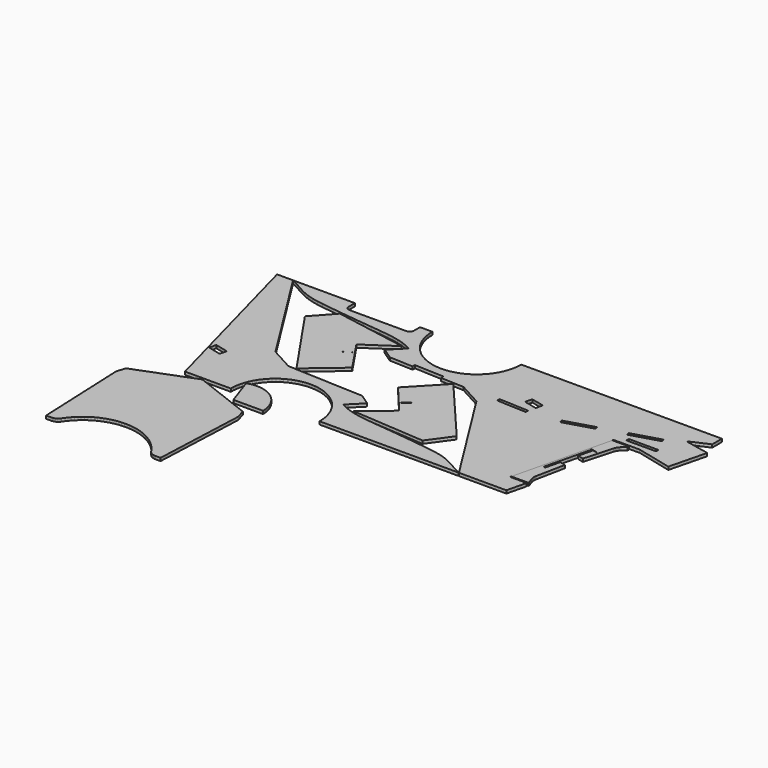
from build123d import *

# Parameters (mm, degrees)
PAD006_DEPTH = 5
PAD005_DEPTH = 5
PAD004_DEPTH = 5
PAD003_DEPTH = 5
PAD002_DEPTH = 5
PAD001_DEPTH = 5
PAD_DEPTH    = 5


with BuildPart() as part13:
    # Sketch → Pad006 (new body)
    with BuildSketch(Plane.XY):
        with BuildLine():
            add(Edge.make_bspline(
                [(348.496572, -118.44405), (348.355461, -119.819884)],
                knots=[0, 0, 3.920459, 3.920459], degree=1))
            add(Edge.make_bspline(
                [(348.355461, -119.819884), (347.932128, -121.125161)],
                knots=[0, 0, 3.88973, 3.88973], degree=1))
            add(Edge.make_bspline(
                [(347.932128, -121.125161), (347.297128, -122.324606)],
                knots=[0, 0, 3.847077, 3.847077], degree=1))
            add(Edge.make_bspline(
                [(347.297128, -122.324606), (346.415184, -123.382939)],
                knots=[0, 0, 3.905125, 3.905125], degree=1))
            add(Edge.make_bspline(
                [(346.415184, -123.382939), (345.35685, -124.264884)],
                knots=[0, 0, 3.905125, 3.905125], degree=1))
            add(Edge.make_bspline(
                [(345.35685, -124.264884), (344.157406, -124.899884)],
                knots=[0, 0, 3.847077, 3.847077], degree=1))
            add(Edge.make_bspline(
                [(344.157406, -124.899884), (342.852128, -125.287939)],
                knots=[0, 0, 3.860052, 3.860052], degree=1))
            add(Edge.make_bspline(
                [(342.852128, -125.287939), (341.476295, -125.42905)],
                knots=[0, 0, 3.920459, 3.920459], degree=1))
            add(Edge.make_bspline(
                [(245.485464, -125.42905), (341.476295, -125.42905)],
                knots=[0, 0, 272.1, 272.1], degree=1))
            add(Edge.make_bspline(
                [(245.485464, -125.42905), (244.10963, -125.287939)],
                knots=[0, 0, 3.920459, 3.920459], degree=1))
            add(Edge.make_bspline(
                [(244.10963, -125.287939), (242.804353, -124.899884)],
                knots=[0, 0, 3.860052, 3.860052], degree=1))
            add(Edge.make_bspline(
                [(242.804353, -124.899884), (241.604908, -124.264884)],
                knots=[0, 0, 3.847077, 3.847077], degree=1))
            add(Edge.make_bspline(
                [(241.604908, -124.264884), (240.546575, -123.382939)],
                knots=[0, 0, 3.905125, 3.905125], degree=1))
            add(Edge.make_bspline(
                [(240.546575, -123.382939), (239.66463, -122.324606)],
                knots=[0, 0, 3.905125, 3.905125], degree=1))
            add(Edge.make_bspline(
                [(239.66463, -122.324606), (239.02963, -121.125161)],
                knots=[0, 0, 3.847077, 3.847077], degree=1))
            add(Edge.make_bspline(
                [(239.02963, -121.125161), (238.606297, -119.819884)],
                knots=[0, 0, 3.88973, 3.88973], degree=1))
            add(Edge.make_bspline(
                [(238.606297, -119.819884), (238.465186, -118.44405)],
                knots=[0, 0, 3.920459, 3.920459], degree=1))
            add(Edge.make_bspline(
                [(238.465186, -105.426551), (238.465186, -118.44405)],
                knots=[0, 0, 36.9, 36.9], degree=1))
            add(Edge.make_bspline(
                [(134.325188, -105.426551), (238.465186, -105.426551)],
                knots=[0, 0, 295.2, 295.2], degree=1))
            add(Edge.make_bspline(
                [(134.325188, -105.426551), (143.003521, -109.836273)],
                knots=[0, 0, 27.593659, 27.593659], degree=1))
            add(Edge.make_bspline(
                [(143.003521, -109.836273), (151.540743, -114.669328)],
                knots=[0, 0, 27.808812, 27.808812], degree=1))
            add(Edge.make_bspline(
                [(151.540743, -114.669328), (160.148521, -119.502384)],
                knots=[0, 0, 27.983031, 27.983031], degree=1))
            add(Edge.make_bspline(
                [(160.148521, -119.502384), (168.89741, -123.912106)],
                knots=[0, 0, 27.772108, 27.772108], degree=1))
            add(Edge.make_bspline(
                [(168.89741, -123.912106), (177.928521, -127.510439)],
                knots=[0, 0, 27.557213, 27.557213], degree=1))
            add(Edge.make_bspline(
                [(177.928521, -127.510439), (187.312409, -130.226828)],
                knots=[0, 0, 27.692057, 27.692057], degree=1))
            add(Edge.make_bspline(
                [(187.312409, -130.226828), (196.907965, -132.202383)],
                knots=[0, 0, 27.770488, 27.770488], degree=1))
            add(Edge.make_bspline(
                [(196.907965, -132.202383), (206.644631, -133.754606)],
                knots=[0, 0, 27.948524, 27.948524], degree=1))
            add(Edge.make_bspline(
                [(206.644631, -133.754606), (237.230464, -137.776272)],
                knots=[0, 0, 87.446269, 87.446269], degree=1))
            add(Edge.make_bspline(
                [(237.230464, -137.776272), (267.710463, -141.374605)],
                knots=[0, 0, 87, 87], degree=1))
            add(Edge.make_bspline(
                [(267.710463, -141.374605), (282.950463, -143.032661)],
                knots=[0, 0, 43.454919, 43.454919], degree=1))
            add(Edge.make_bspline(
                [(282.950463, -143.032661), (298.261018, -144.655439)],
                knots=[0, 0, 43.643098, 43.643098], degree=1))
            add(Edge.make_bspline(
                [(298.261018, -144.655439), (313.606851, -146.278216)],
                knots=[0, 0, 43.742542, 43.742542], degree=1))
            add(Edge.make_bspline(
                [(313.606851, -146.278216), (328.882128, -148.183216)],
                knots=[0, 0, 43.635421, 43.635421], degree=1))
            add(Edge.make_bspline(
                [(328.882128, -148.183216), (338.407128, -149.770716)],
                knots=[0, 0, 27.372431, 27.372431], degree=1))
            add(Edge.make_bspline(
                [(338.407128, -149.770716), (347.826295, -151.78155)],
                knots=[0, 0, 27.301648, 27.301648], degree=1))
            add(Edge.make_bspline(
                [(347.826295, -151.78155), (357.10435, -154.427383)],
                knots=[0, 0, 27.348492, 27.348492], degree=1))
            add(Edge.make_bspline(
                [(357.10435, -154.427383), (366.135461, -157.81405)],
                knots=[0, 0, 27.340812, 27.340812], degree=1))
            add(Edge.make_bspline(
                [(366.135461, -157.81405), (374.990183, -162.047383)],
                knots=[0, 0, 27.821035, 27.821035], degree=1))
            add(Edge.make_bspline(
                [(374.990183, -162.047383), (352.306572, -184.730993)],
                knots=[0, 0, 90.933932, 90.933932], degree=1))
            add(Edge.make_bspline(
                [(352.306572, -184.730993), (371.003794, -197.32516)],
                knots=[0, 0, 63.902191, 63.902191], degree=1))
            add(Edge.make_bspline(
                [(371.003794, -197.32516), (410.58546, -199.018493)],
                knots=[0, 0, 112.302627, 112.302627], degree=1))
            add(Edge.make_bspline(
                [(410.797127, -194.009049), (410.58546, -199.018493)],
                knots=[0, 0, 14.21267, 14.21267], degree=1))
            add(Edge.make_bspline(
                [(460.750459, -196.160993), (410.797127, -194.009049)],
                knots=[0, 0, 141.73133, 141.73133], degree=1))
            add(Edge.make_bspline(
                [(460.750459, -201.13516), (460.750459, -196.160993)],
                knots=[0, 0, 14.1, 14.1], degree=1))
            add(Edge.make_bspline(
                [(460.750459, -201.13516), (499.873514, -202.828493)],
                knots=[0, 0, 111.003829, 111.003829], degree=1))
            add(Edge.make_bspline(
                [(499.873514, -202.828493), (538.679068, -224.030437)],
                knots=[0, 0, 125.347557, 125.347557], degree=1))
            add(Edge.make_bspline(
                [(538.679068, -224.030437), (648.216566, -397.985155)],
                knots=[0, 0, 582.715934, 582.715934], degree=1))
            add(Edge.make_bspline(
                [(648.216566, -397.985155), (728.367675, -397.985155)],
                knots=[0, 0, 227.2, 227.2], degree=1))
            add(Edge.make_bspline(
                [(728.367675, -397.985155), (736.340453, -365.106267)],
                knots=[0, 0, 95.900991, 95.900991], degree=1))
            add(Edge.make_bspline(
                [(708.329898, -365.106267), (736.340453, -365.106267)],
                knots=[0, 0, 79.4, 79.4], degree=1))
            add(Edge.make_bspline(
                [(749.005175, -197.32516), (708.329898, -365.106267)],
                knots=[0, 0, 489.376593, 489.376593], degree=1))
            add(Edge.make_bspline(
                [(749.005175, -197.32516), (792.996563, -197.32516)],
                knots=[0, 0, 124.7, 124.7], degree=1))
            add(Edge.make_bspline(
                [(792.996563, -197.32516), (852.898228, -211.824326)],
                knots=[0, 0, 174.70332, 174.70332], degree=1))
            add(Edge.make_bspline(
                [(852.898228, -211.824326), (868.561561, -149.206272)],
                knots=[0, 0, 182.968877, 182.968877], degree=1))
            add(Edge.make_bspline(
                [(868.561561, -149.206272), (826.298784, -140.316272)],
                knots=[0, 0, 122.42173, 122.42173], degree=1))
            add(Edge.make_bspline(
                [(826.298784, -140.316272), (858.331006, -126.028772)],
                knots=[0, 0, 99.422784, 99.422784], degree=1))
            add(Edge.make_bspline(
                [(858.331006, -126.028772), (858.331006, -105.426551)],
                knots=[0, 0, 58.4, 58.4], degree=1))
            add(Edge.make_bspline(
                [(519.346846, -105.426551), (858.331006, -105.426551)],
                knots=[0, 0, 960.9, 960.9], degree=1))
            add(Edge.make_bspline(
                [(519.170458, -110.682939), (519.346846, -105.426551)],
                knots=[0, 0, 14.908387, 14.908387], degree=1))
            add(Edge.make_bspline(
                [(518.606013, -115.868773), (519.170458, -110.682939)],
                knots=[0, 0, 14.786818, 14.786818], degree=1))
            add(Edge.make_bspline(
                [(517.688791, -121.019328), (518.606013, -115.868773)],
                knots=[0, 0, 14.8297, 14.8297], degree=1))
            add(Edge.make_bspline(
                [(516.418791, -126.099328), (517.688791, -121.019328)],
                knots=[0, 0, 14.84318, 14.84318], degree=1))
            add(Edge.make_bspline(
                [(514.831291, -131.073495), (516.418791, -126.099328)],
                knots=[0, 0, 14.800676, 14.800676], degree=1))
            add(Edge.make_bspline(
                [(512.855735, -135.941828), (514.831291, -131.073495)],
                knots=[0, 0, 14.892951, 14.892951], degree=1))
            add(Edge.make_bspline(
                [(510.56268, -140.633772), (512.855735, -135.941828)],
                knots=[0, 0, 14.803378, 14.803378], degree=1))
            add(Edge.make_bspline(
                [(507.952124, -145.184605), (510.56268, -140.633772)],
                knots=[0, 0, 14.871785, 14.871785], degree=1))
            add(Edge.make_bspline(
                [(505.024069, -149.523772), (507.952124, -145.184605)],
                knots=[0, 0, 14.838464, 14.838464], degree=1))
            add(Edge.make_bspline(
                [(501.778513, -153.651272), (505.024069, -149.523772)],
                knots=[0, 0, 14.883884, 14.883884], degree=1))
            add(Edge.make_bspline(
                [(498.286014, -157.531827), (501.778513, -153.651272)],
                knots=[0, 0, 14.798986, 14.798986], degree=1))
            add(Edge.make_bspline(
                [(494.511291, -161.165438), (498.286014, -157.531827)],
                knots=[0, 0, 14.851936, 14.851936], degree=1))
            add(Edge.make_bspline(
                [(490.524903, -164.552105), (494.511291, -161.165438)],
                knots=[0, 0, 14.82734, 14.82734], degree=1))
            add(Edge.make_bspline(
                [(486.291569, -167.621272), (490.524903, -164.552105)],
                knots=[0, 0, 14.821943, 14.821943], degree=1))
            add(Edge.make_bspline(
                [(481.846569, -170.408216), (486.291569, -167.621272)],
                knots=[0, 0, 14.871785, 14.871785], degree=1))
            add(Edge.make_bspline(
                [(477.225181, -172.842383), (481.846569, -170.408216)],
                knots=[0, 0, 14.80608, 14.80608], degree=1))
            add(Edge.make_bspline(
                [(472.427403, -174.994327), (477.225181, -172.842383)],
                knots=[0, 0, 14.905368, 14.905368], degree=1))
            add(Edge.make_bspline(
                [(467.523792, -176.758216), (472.427403, -174.994327)],
                knots=[0, 0, 14.771933, 14.771933], degree=1))
            add(Edge.make_bspline(
                [(462.47907, -178.204605), (467.523792, -176.758216)],
                knots=[0, 0, 14.876155, 14.876155], degree=1))
            add(Edge.make_bspline(
                [(457.363792, -179.298216), (462.47907, -178.204605)],
                knots=[0, 0, 14.827677, 14.827677], degree=1))
            add(Edge.make_bspline(
                [(452.177959, -180.039049), (457.363792, -179.298216)],
                knots=[0, 0, 14.849242, 14.849242], degree=1))
            add(Edge.make_bspline(
                [(446.956848, -180.391827), (452.177959, -180.039049)],
                knots=[0, 0, 14.833745, 14.833745], degree=1))
            add(Edge.make_bspline(
                [(441.735737, -180.391827), (446.956848, -180.391827)],
                knots=[0, 0, 14.8, 14.8], degree=1))
            add(Edge.make_bspline(
                [(436.514626, -180.039049), (441.735737, -180.391827)],
                knots=[0, 0, 14.833745, 14.833745], degree=1))
            add(Edge.make_bspline(
                [(431.328793, -179.298216), (436.514626, -180.039049)],
                knots=[0, 0, 14.849242, 14.849242], degree=1))
            add(Edge.make_bspline(
                [(426.213515, -178.204605), (431.328793, -179.298216)],
                knots=[0, 0, 14.827677, 14.827677], degree=1))
            add(Edge.make_bspline(
                [(421.168793, -176.758216), (426.213515, -178.204605)],
                knots=[0, 0, 14.876155, 14.876155], degree=1))
            add(Edge.make_bspline(
                [(416.229904, -174.994327), (421.168793, -176.758216)],
                knots=[0, 0, 14.866069, 14.866069], degree=1))
            add(Edge.make_bspline(
                [(411.467404, -172.842383), (416.229904, -174.994327)],
                knots=[0, 0, 14.814182, 14.814182], degree=1))
            add(Edge.make_bspline(
                [(406.846016, -170.408216), (411.467404, -172.842383)],
                knots=[0, 0, 14.80608, 14.80608], degree=1))
            add(Edge.make_bspline(
                [(402.401016, -167.621272), (406.846016, -170.408216)],
                knots=[0, 0, 14.871785, 14.871785], degree=1))
            add(Edge.make_bspline(
                [(398.167682, -164.552105), (402.401016, -167.621272)],
                knots=[0, 0, 14.821943, 14.821943], degree=1))
            add(Edge.make_bspline(
                [(394.146016, -161.165438), (398.167682, -164.552105)],
                knots=[0, 0, 14.903691, 14.903691], degree=1))
            add(Edge.make_bspline(
                [(390.406571, -157.531827), (394.146016, -161.165438)],
                knots=[0, 0, 14.780054, 14.780054], degree=1))
            add(Edge.make_bspline(
                [(386.878794, -153.651272), (390.406571, -157.531827)],
                knots=[0, 0, 14.866069, 14.866069], degree=1))
            add(Edge.make_bspline(
                [(383.668516, -149.523772), (386.878794, -153.651272)],
                knots=[0, 0, 14.822281, 14.822281], degree=1))
            add(Edge.make_bspline(
                [(380.740461, -145.184605), (383.668516, -149.523772)],
                knots=[0, 0, 14.838464, 14.838464], degree=1))
            add(Edge.make_bspline(
                [(378.129905, -140.633772), (380.740461, -145.184605)],
                knots=[0, 0, 14.871785, 14.871785], degree=1))
            add(Edge.make_bspline(
                [(375.83685, -135.941828), (378.129905, -140.633772)],
                knots=[0, 0, 14.803378, 14.803378], degree=1))
            add(Edge.make_bspline(
                [(373.861294, -131.073495), (375.83685, -135.941828)],
                knots=[0, 0, 14.892951, 14.892951], degree=1))
            add(Edge.make_bspline(
                [(372.238516, -126.099328), (373.861294, -131.073495)],
                knots=[0, 0, 14.831386, 14.831386], degree=1))
            add(Edge.make_bspline(
                [(370.968516, -121.019328), (372.238516, -126.099328)],
                knots=[0, 0, 14.84318, 14.84318], degree=1))
            add(Edge.make_bspline(
                [(370.086572, -115.868773), (370.968516, -121.019328)],
                knots=[0, 0, 14.812495, 14.812495], degree=1))
            add(Edge.make_bspline(
                [(369.522127, -110.682939), (370.086572, -115.868773)],
                knots=[0, 0, 14.786818, 14.786818], degree=1))
            add(Edge.make_bspline(
                [(369.345739, -105.426551), (369.522127, -110.682939)],
                knots=[0, 0, 14.908387, 14.908387], degree=1))
            add(Edge.make_bspline(
                [(348.496572, -105.426551), (369.345739, -105.426551)],
                knots=[0, 0, 59.1, 59.1], degree=1))
            add(Edge.make_bspline(
                [(348.496572, -118.44405), (348.496572, -105.426551)],
                knots=[0, 0, 36.9, 36.9], degree=1))
        make_face()
        with BuildLine():
            add(Edge.make_bspline(
                [(592.689345, -173.547938), (614.561567, -178.839605)],
                knots=[0, 0, 63.788714, 63.788714], degree=1))
            add(Edge.make_bspline(
                [(614.561567, -178.839605), (611.739344, -190.516549)],
                knots=[0, 0, 34.053047, 34.053047], degree=1))
            add(Edge.make_bspline(
                [(589.867123, -185.224882), (611.739344, -190.516549)],
                knots=[0, 0, 63.788714, 63.788714], degree=1))
            add(Edge.make_bspline(
                [(589.867123, -185.224882), (592.689345, -173.547938)],
                knots=[0, 0, 34.053047, 34.053047], degree=1))
        make_face(mode=Mode.SUBTRACT)
        with BuildLine():
            add(Edge.make_bspline(
                [(753.450175, -174.570994), (801.392674, -160.318772)],
                knots=[0, 0, 141.77789, 141.77789], degree=1))
            add(Edge.make_bspline(
                [(801.392674, -160.318772), (799.946285, -155.520994)],
                knots=[0, 0, 14.204577, 14.204577], degree=1))
            add(Edge.make_bspline(
                [(799.946285, -155.520994), (752.039064, -169.773216)],
                knots=[0, 0, 141.682038, 141.682038], degree=1))
            add(Edge.make_bspline(
                [(752.039064, -169.773216), (753.450175, -174.570994)],
                knots=[0, 0, 14.176036, 14.176036], degree=1))
        make_face(mode=Mode.SUBTRACT)
        with BuildLine():
            add(Edge.make_bspline(
                [(662.398232, -201.629049), (710.340731, -187.376827)],
                knots=[0, 0, 141.77789, 141.77789], degree=1))
            add(Edge.make_bspline(
                [(710.340731, -187.376827), (708.894342, -182.579049)],
                knots=[0, 0, 14.204577, 14.204577], degree=1))
            add(Edge.make_bspline(
                [(708.894342, -182.579049), (660.987121, -196.831271)],
                knots=[0, 0, 141.682038, 141.682038], degree=1))
            add(Edge.make_bspline(
                [(660.987121, -196.831271), (662.398232, -201.629049)],
                knots=[0, 0, 14.176036, 14.176036], degree=1))
        make_face(mode=Mode.SUBTRACT)
        with BuildLine():
            add(Edge.make_bspline(
                [(558.752123, -205.368493), (608.705456, -207.48516)],
                knots=[0, 0, 141.727062, 141.727062], degree=1))
            add(Edge.make_bspline(
                [(608.705456, -207.48516), (608.917122, -202.510993)],
                knots=[0, 0, 14.11276, 14.11276], degree=1))
            add(Edge.make_bspline(
                [(608.917122, -202.510993), (558.96379, -200.359049)],
                knots=[0, 0, 141.73133, 141.73133], degree=1))
            add(Edge.make_bspline(
                [(558.96379, -200.359049), (558.752123, -205.368493)],
                knots=[0, 0, 14.21267, 14.21267], degree=1))
        make_face(mode=Mode.SUBTRACT)
        with BuildLine():
            add(Edge.make_bspline(
                [(762.939897, -187.905993), (812.928507, -187.905993)],
                knots=[0, 0, 141.7, 141.7], degree=1))
            add(Edge.make_bspline(
                [(812.928507, -187.905993), (812.928507, -182.896549)],
                knots=[0, 0, 14.2, 14.2], degree=1))
            add(Edge.make_bspline(
                [(812.928507, -182.896549), (762.939897, -182.614327)],
                knots=[0, 0, 141.702258, 141.702258], degree=1))
            add(Edge.make_bspline(
                [(762.939897, -182.614327), (762.939897, -187.905993)],
                knots=[0, 0, 15, 15], degree=1))
        make_face(mode=Mode.SUBTRACT)
    extrude(amount=PAD006_DEPTH)


with BuildPart() as part14:
    # Sketch001 → Pad005 (new body)
    with BuildSketch(Plane.XY):
        with BuildLine():
            add(Edge.make_bspline(
                [(736.799064, -363.130712), (737.32823, -360.908212)],
                knots=[0, 0, 6.47611, 6.47611], degree=1))
            add(Edge.make_bspline(
                [(737.32823, -360.908212), (734.400175, -352.582656)],
                knots=[0, 0, 25.016994, 25.016994], degree=1))
            add(Edge.make_bspline(
                [(734.400175, -352.582656), (733.976842, -351.277379)],
                knots=[0, 0, 3.88973, 3.88973], degree=1))
            add(Edge.make_bspline(
                [(733.976842, -351.277379), (733.659342, -349.972101)],
                knots=[0, 0, 3.807887, 3.807887], degree=1))
            add(Edge.make_bspline(
                [(733.659342, -349.972101), (733.447675, -348.631545)],
                knots=[0, 0, 3.847077, 3.847077], degree=1))
            add(Edge.make_bspline(
                [(733.447675, -348.631545), (733.306564, -347.29099)],
                knots=[0, 0, 3.820995, 3.820995], degree=1))
            add(Edge.make_bspline(
                [(733.306564, -347.29099), (733.236008, -345.950434)],
                knots=[0, 0, 3.80526, 3.80526], degree=1))
            add(Edge.make_bspline(
                [(733.236008, -345.950434), (733.271286, -344.609879)],
                knots=[0, 0, 3.801316, 3.801316], degree=1))
            add(Edge.make_bspline(
                [(733.271286, -344.609879), (733.412397, -343.269323)],
                knots=[0, 0, 3.820995, 3.820995], degree=1))
            add(Edge.make_bspline(
                [(733.412397, -343.269323), (733.624064, -341.928768)],
                knots=[0, 0, 3.847077, 3.847077], degree=1))
            add(Edge.make_bspline(
                [(733.624064, -341.928768), (743.396008, -293.421824)],
                knots=[0, 0, 140.262397, 140.262397], degree=1))
            add(Edge.make_bspline(
                [(733.694619, -291.058213), (743.396008, -293.421824)],
                knots=[0, 0, 28.304417, 28.304417], degree=1))
            add(Edge.make_bspline(
                [(733.694619, -291.058213), (727.803231, -315.364602)],
                knots=[0, 0, 70.894993, 70.894993], degree=1))
            add(Edge.make_bspline(
                [(724.875175, -314.659046), (727.803231, -315.364602)],
                knots=[0, 0, 8.537564, 8.537564], degree=1))
            add(Edge.make_bspline(
                [(724.875175, -314.659046), (743.713508, -236.906826)],
                knots=[0, 0, 226.776807, 226.776807], degree=1))
            add(Edge.make_bspline(
                [(741.561564, -236.377659), (743.713508, -236.906826)],
                knots=[0, 0, 6.28172, 6.28172], degree=1))
            add(Edge.make_bspline(
                [(741.702675, -235.88377), (741.561564, -236.377659)],
                knots=[0, 0, 1.456022, 1.456022], degree=1))
            add(Edge.make_bspline(
                [(754.826008, -239.094048), (741.702675, -235.88377)],
                knots=[0, 0, 38.296867, 38.296867], degree=1))
            add(Edge.make_bspline(
                [(754.684897, -239.552659), (754.826008, -239.094048)],
                knots=[0, 0, 1.360147, 1.360147], degree=1))
            add(Edge.make_bspline(
                [(746.641564, -237.612381), (754.684897, -239.552659)],
                knots=[0, 0, 23.453998, 23.453998], degree=1))
            add(Edge.make_bspline(
                [(740.750175, -261.918769), (746.641564, -237.612381)],
                knots=[0, 0, 70.894993, 70.894993], degree=1))
            add(Edge.make_bspline(
                [(740.750175, -261.918769), (750.486841, -264.282381)],
                knots=[0, 0, 28.401584, 28.401584], degree=1))
            add(Edge.make_bspline(
                [(763.99823, -216.657382), (750.486841, -264.282381)],
                knots=[0, 0, 140.327795, 140.327795], degree=1))
            add(Edge.make_bspline(
                [(763.99823, -216.657382), (764.421563, -215.387382)],
                knots=[0, 0, 3.794733, 3.794733], degree=1))
            add(Edge.make_bspline(
                [(764.421563, -215.387382), (764.915452, -214.117382)],
                knots=[0, 0, 3.862642, 3.862642], degree=1))
            add(Edge.make_bspline(
                [(764.915452, -214.117382), (765.479897, -212.917937)],
                knots=[0, 0, 3.757659, 3.757659], degree=1))
            add(Edge.make_bspline(
                [(765.479897, -212.917937), (766.150174, -211.718493)],
                knots=[0, 0, 3.894868, 3.894868], degree=1))
            add(Edge.make_bspline(
                [(766.150174, -211.718493), (766.891008, -210.589604)],
                knots=[0, 0, 3.827532, 3.827532], degree=1))
            add(Edge.make_bspline(
                [(766.891008, -210.589604), (767.702396, -209.531271)],
                knots=[0, 0, 3.780212, 3.780212], degree=1))
            add(Edge.make_bspline(
                [(767.702396, -209.531271), (768.584341, -208.508215)],
                knots=[0, 0, 3.828838, 3.828838], degree=1))
            add(Edge.make_bspline(
                [(768.584341, -208.508215), (769.536841, -207.555715)],
                knots=[0, 0, 3.818377, 3.818377], degree=1))
            add(Edge.make_bspline(
                [(775.957396, -201.523215), (769.536841, -207.555715)],
                knots=[0, 0, 24.972985, 24.972985], degree=1))
            add(Edge.make_bspline(
                [(775.957396, -201.523215), (776.521841, -199.265438)],
                knots=[0, 0, 6.596969, 6.596969], degree=1))
            add(Edge.make_bspline(
                [(776.521841, -199.265438), (748.511286, -199.265438)],
                knots=[0, 0, 79.4, 79.4], degree=1))
            Line((748.511286, -199.265438), (708.788509, -363.130712))
            add(Edge.make_bspline(
                [(736.799064, -363.130712), (708.788509, -363.130712)],
                knots=[0, 0, 79.4, 79.4], degree=1))
        make_face()
    extrude(amount=PAD005_DEPTH)


with BuildPart() as part15:
    # Sketch002 → Pad004 (new body)
    with BuildSketch(Plane.XY):
        with BuildLine():
            add(Edge.make_bspline(
                [(647.934344, -397.985155), (639.25601, -393.575433)],
                knots=[0, 0, 27.593659, 27.593659], degree=1))
            add(Edge.make_bspline(
                [(639.25601, -393.575433), (630.718788, -388.777656)],
                knots=[0, 0, 27.759683, 27.759683], degree=1))
            add(Edge.make_bspline(
                [(630.718788, -388.777656), (622.146289, -383.9446)],
                knots=[0, 0, 27.895878, 27.895878], degree=1))
            add(Edge.make_bspline(
                [(622.146289, -383.9446), (613.3974, -379.534878)],
                knots=[0, 0, 27.772108, 27.772108], degree=1))
            add(Edge.make_bspline(
                [(613.3974, -379.534878), (604.366289, -375.936545)],
                knots=[0, 0, 27.557213, 27.557213], degree=1))
            add(Edge.make_bspline(
                [(604.366289, -375.936545), (594.9824, -373.220156)],
                knots=[0, 0, 27.692057, 27.692057], degree=1))
            add(Edge.make_bspline(
                [(594.9824, -373.220156), (585.386845, -371.209323)],
                knots=[0, 0, 27.790826, 27.790826], degree=1))
            add(Edge.make_bspline(
                [(585.386845, -371.209323), (575.650179, -369.6571)],
                knots=[0, 0, 27.948524, 27.948524], degree=1))
            add(Edge.make_bspline(
                [(575.650179, -369.6571), (545.029068, -365.635434)],
                knots=[0, 0, 87.545417, 87.545417], degree=1))
            add(Edge.make_bspline(
                [(545.029068, -365.635434), (514.584347, -362.037101)],
                knots=[0, 0, 86.90069, 86.90069], degree=1))
            add(Edge.make_bspline(
                [(514.584347, -362.037101), (499.309069, -360.379045)],
                knots=[0, 0, 43.554334, 43.554334], degree=1))
            add(Edge.make_bspline(
                [(499.309069, -360.379045), (483.998514, -358.756267)],
                knots=[0, 0, 43.643098, 43.643098], degree=1))
            add(Edge.make_bspline(
                [(483.998514, -358.756267), (468.687959, -357.13349)],
                knots=[0, 0, 43.643098, 43.643098], degree=1))
            add(Edge.make_bspline(
                [(468.687959, -357.13349), (453.377403, -355.22849)],
                knots=[0, 0, 43.734654, 43.734654], degree=1))
            add(Edge.make_bspline(
                [(453.377403, -355.22849), (443.852404, -353.676267)],
                knots=[0, 0, 27.356169, 27.356169], degree=1))
            add(Edge.make_bspline(
                [(443.852404, -353.676267), (434.433237, -351.630156)],
                knots=[0, 0, 27.322701, 27.322701], degree=1))
            add(Edge.make_bspline(
                [(434.433237, -351.630156), (425.19046, -349.019601)],
                knots=[0, 0, 27.224989, 27.224989], degree=1))
            add(Edge.make_bspline(
                [(425.19046, -349.019601), (416.124071, -345.632934)],
                knots=[0, 0, 27.434467, 27.434467], degree=1))
            add(Edge.make_bspline(
                [(416.124071, -345.632934), (407.304627, -341.364323)],
                knots=[0, 0, 27.774269, 27.774269], degree=1))
            add(Edge.make_bspline(
                [(407.304627, -341.364323), (429.952959, -318.71599)],
                knots=[0, 0, 90.792511, 90.792511], degree=1))
            add(Edge.make_bspline(
                [(429.952959, -318.71599), (411.255738, -306.121824)],
                knots=[0, 0, 63.902191, 63.902191], degree=1))
            add(Edge.make_bspline(
                [(411.255738, -306.121824), (282.421296, -300.618491)],
                knots=[0, 0, 365.533035, 365.533035], degree=1))
            add(Edge.make_bspline(
                [(282.421296, -300.618491), (243.580464, -279.381269)],
                knots=[0, 0, 125.483266, 125.483266], degree=1))
            add(Edge.make_bspline(
                [(243.580464, -279.381269), (134.078244, -105.426551)],
                knots=[0, 0, 582.662655, 582.662655], degree=1))
            add(Edge.make_bspline(
                [(134.078244, -105.426551), (107.055467, -105.426551)],
                knots=[0, 0, 76.6, 76.6], degree=1))
            add(Edge.make_bspline(
                [(107.055467, -105.426551), (185.54852, -397.985155)],
                knots=[0, 0, 858.629571, 858.629571], degree=1))
            add(Edge.make_bspline(
                [(262.947963, -397.985155), (185.54852, -397.985155)],
                knots=[0, 0, 219.4, 219.4], degree=1))
            add(Edge.make_bspline(
                [(263.124352, -392.764044), (262.947963, -397.985155)],
                knots=[0, 0, 14.808444, 14.808444], degree=1))
            add(Edge.make_bspline(
                [(263.653519, -387.542933), (263.124352, -392.764044)],
                knots=[0, 0, 14.875819, 14.875819], degree=1))
            add(Edge.make_bspline(
                [(264.570741, -382.392378), (263.653519, -387.542933)],
                knots=[0, 0, 14.8297, 14.8297], degree=1))
            add(Edge.make_bspline(
                [(265.840741, -377.312378), (264.570741, -382.392378)],
                knots=[0, 0, 14.84318, 14.84318], degree=1))
            add(Edge.make_bspline(
                [(267.463519, -372.338211), (265.840741, -377.312378)],
                knots=[0, 0, 14.831386, 14.831386], degree=1))
            add(Edge.make_bspline(
                [(269.403796, -367.505156), (267.463519, -372.338211)],
                knots=[0, 0, 14.762791, 14.762791], degree=1))
            add(Edge.make_bspline(
                [(271.696852, -362.777934), (269.403796, -367.505156)],
                knots=[0, 0, 14.893287, 14.893287], degree=1))
            add(Edge.make_bspline(
                [(274.342685, -358.262378), (271.696852, -362.777934)],
                knots=[0, 0, 14.835431, 14.835431], degree=1))
            add(Edge.make_bspline(
                [(277.270741, -353.923212), (274.342685, -358.262378)],
                knots=[0, 0, 14.838464, 14.838464], degree=1))
            add(Edge.make_bspline(
                [(280.481018, -349.795712), (277.270741, -353.923212)],
                knots=[0, 0, 14.822281, 14.822281], degree=1))
            add(Edge.make_bspline(
                [(283.973518, -345.879879), (280.481018, -349.795712)],
                knots=[0, 0, 14.873466, 14.873466], degree=1))
            add(Edge.make_bspline(
                [(287.74824, -342.246268), (283.973518, -345.879879)],
                knots=[0, 0, 14.851936, 14.851936], degree=1))
            add(Edge.make_bspline(
                [(291.769907, -338.894879), (287.74824, -342.246268)],
                knots=[0, 0, 14.839474, 14.839474], degree=1))
            add(Edge.make_bspline(
                [(296.00324, -335.825712), (291.769907, -338.894879)],
                knots=[0, 0, 14.821943, 14.821943], degree=1))
            add(Edge.make_bspline(
                [(300.44824, -333.038768), (296.00324, -335.825712)],
                knots=[0, 0, 14.871785, 14.871785], degree=1))
            add(Edge.make_bspline(
                [(305.069629, -330.569324), (300.44824, -333.038768)],
                knots=[0, 0, 14.852946, 14.852946], degree=1))
            add(Edge.make_bspline(
                [(309.832129, -328.452657), (305.069629, -330.569324)],
                knots=[0, 0, 14.773287, 14.773287], degree=1))
            add(Edge.make_bspline(
                [(314.771018, -326.65349), (309.832129, -328.452657)],
                knots=[0, 0, 14.9, 14.9], degree=1))
            add(Edge.make_bspline(
                [(319.780462, -325.207101), (314.771018, -326.65349)],
                knots=[0, 0, 14.780054, 14.780054], degree=1))
            add(Edge.make_bspline(
                [(324.89574, -324.148768), (319.780462, -325.207101)],
                knots=[0, 0, 14.807093, 14.807093], degree=1))
            add(Edge.make_bspline(
                [(330.081573, -323.407935), (324.89574, -324.148768)],
                knots=[0, 0, 14.849242, 14.849242], degree=1))
            add(Edge.make_bspline(
                [(335.302684, -323.055157), (330.081573, -323.407935)],
                knots=[0, 0, 14.833745, 14.833745], degree=1))
            add(Edge.make_bspline(
                [(340.559073, -323.055157), (335.302684, -323.055157)],
                knots=[0, 0, 14.9, 14.9], degree=1))
            add(Edge.make_bspline(
                [(345.780184, -323.407935), (340.559073, -323.055157)],
                knots=[0, 0, 14.833745, 14.833745], degree=1))
            add(Edge.make_bspline(
                [(350.966017, -324.148768), (345.780184, -323.407935)],
                knots=[0, 0, 14.849242, 14.849242], degree=1))
            add(Edge.make_bspline(
                [(356.081294, -325.207101), (350.966017, -324.148768)],
                knots=[0, 0, 14.807093, 14.807093], degree=1))
            add(Edge.make_bspline(
                [(361.126017, -326.65349), (356.081294, -325.207101)],
                knots=[0, 0, 14.876155, 14.876155], degree=1))
            add(Edge.make_bspline(
                [(366.029628, -328.452657), (361.126017, -326.65349)],
                knots=[0, 0, 14.80608, 14.80608], degree=1))
            add(Edge.make_bspline(
                [(370.827405, -330.569324), (366.029628, -328.452657)],
                knots=[0, 0, 14.864723, 14.864723], degree=1))
            add(Edge.make_bspline(
                [(375.448794, -333.038768), (370.827405, -330.569324)],
                knots=[0, 0, 14.852946, 14.852946], degree=1))
            add(Edge.make_bspline(
                [(379.858516, -335.825712), (375.448794, -333.038768)],
                knots=[0, 0, 14.787157, 14.787157], degree=1))
            add(Edge.make_bspline(
                [(384.091849, -338.894879), (379.858516, -335.825712)],
                knots=[0, 0, 14.821943, 14.821943], degree=1))
            add(Edge.make_bspline(
                [(388.113516, -342.246268), (384.091849, -338.894879)],
                knots=[0, 0, 14.839474, 14.839474], degree=1))
            add(Edge.make_bspline(
                [(391.888238, -345.879879), (388.113516, -342.246268)],
                knots=[0, 0, 14.851936, 14.851936], degree=1))
            add(Edge.make_bspline(
                [(395.380738, -349.795712), (391.888238, -345.879879)],
                knots=[0, 0, 14.873466, 14.873466], degree=1))
            add(Edge.make_bspline(
                [(398.626294, -353.923212), (395.380738, -349.795712)],
                knots=[0, 0, 14.883884, 14.883884], degree=1))
            add(Edge.make_bspline(
                [(401.554349, -358.262378), (398.626294, -353.923212)],
                knots=[0, 0, 14.838464, 14.838464], degree=1))
            add(Edge.make_bspline(
                [(404.164905, -362.777934), (401.554349, -358.262378)],
                knots=[0, 0, 14.785128, 14.785128], degree=1))
            add(Edge.make_bspline(
                [(406.45796, -367.505156), (404.164905, -362.777934)],
                knots=[0, 0, 14.893287, 14.893287], degree=1))
            add(Edge.make_bspline(
                [(408.398238, -372.338211), (406.45796, -367.505156)],
                knots=[0, 0, 14.762791, 14.762791], degree=1))
            add(Edge.make_bspline(
                [(410.021015, -377.312378), (408.398238, -372.338211)],
                knots=[0, 0, 14.831386, 14.831386], degree=1))
            add(Edge.make_bspline(
                [(411.291015, -382.392378), (410.021015, -377.312378)],
                knots=[0, 0, 14.84318, 14.84318], degree=1))
            add(Edge.make_bspline(
                [(412.208238, -387.542933), (411.291015, -382.392378)],
                knots=[0, 0, 14.8297, 14.8297], degree=1))
            add(Edge.make_bspline(
                [(412.737404, -392.764044), (412.208238, -387.542933)],
                knots=[0, 0, 14.875819, 14.875819], degree=1))
            add(Edge.make_bspline(
                [(412.949071, -397.985155), (412.737404, -392.764044)],
                knots=[0, 0, 14.812157, 14.812157], degree=1))
            add(Edge.make_bspline(
                [(647.934344, -397.985155), (412.949071, -397.985155)],
                knots=[0, 0, 666.1, 666.1], degree=1))
        make_face()
        with BuildLine():
            add(Edge.make_bspline(
                [(170.555465, -312.930435), (192.427687, -318.222102)],
                knots=[0, 0, 63.788714, 63.788714], degree=1))
            add(Edge.make_bspline(
                [(192.427687, -318.222102), (189.605465, -329.899046)],
                knots=[0, 0, 34.053047, 34.053047], degree=1))
            add(Edge.make_bspline(
                [(189.605465, -329.899046), (167.733243, -324.572101)],
                knots=[0, 0, 63.812303, 63.812303], degree=1))
            add(Edge.make_bspline(
                [(167.733243, -324.572101), (170.555465, -312.930435)],
                knots=[0, 0, 33.955854, 33.955854], degree=1))
        make_face(mode=Mode.SUBTRACT)
    extrude(amount=PAD004_DEPTH)


with BuildPart() as part16:
    # Sketch003 → Pad003 (new body)
    with BuildSketch(Plane.XY):
        with BuildLine():
            add(Edge.make_bspline(
                [(363.489628, -162.788216), (241.851853, -141.268772)],
                knots=[0, 0, 350.154309, 350.154309], degree=1))
            add(Edge.make_bspline(
                [(363.489628, -162.788216), (313.712684, -196.302104)],
                knots=[0, 0, 170.100588, 170.100588], degree=1))
            add(Edge.make_bspline(
                [(313.712684, -196.302104), (350.895461, -251.511825)],
                knots=[0, 0, 188.683359, 188.683359], degree=1))
            add(Edge.make_bspline(
                [(294.839074, -299.172102), (350.895461, -251.511825)],
                knots=[0, 0, 208.569461, 208.569461], degree=1))
            add(Edge.make_bspline(
                [(210.560464, -176.017382), (294.839074, -299.172102)],
                knots=[0, 0, 423.017754, 423.017754], degree=1))
            add(Edge.make_bspline(
                [(241.851853, -141.268772), (210.560464, -176.017382)],
                knots=[0, 0, 132.55165, 132.55165], degree=1))
        make_face()
        with BuildLine():
            add(Edge.make_bspline(
                [(323.661017, -216.445715), (312.442684, -223.995159)],
                knots=[0, 0, 38.330145, 38.330145], degree=1))
            add(Edge.make_bspline(
                [(312.442684, -223.995159), (312.724907, -224.383215)],
                knots=[0, 0, 1.360147, 1.360147], degree=1))
            add(Edge.make_bspline(
                [(312.724907, -224.383215), (323.907962, -216.869048)],
                knots=[0, 0, 38.19136, 38.19136], degree=1))
            add(Edge.make_bspline(
                [(323.907962, -216.869048), (323.661017, -216.445715)],
                knots=[0, 0, 1.389244, 1.389244], degree=1))
        make_face(mode=Mode.SUBTRACT)
    extrude(amount=PAD003_DEPTH)


with BuildPart() as part17:
    # Sketch004 → Pad002 (new body)
    with BuildSketch(Plane.XY):
        with BuildLine():
            add(Edge.make_bspline(
                [(430.058793, -347.396823), (553.284068, -356.075156)],
                knots=[0, 0, 350.165175, 350.165175], degree=1))
            add(Edge.make_bspline(
                [(430.058793, -347.396823), (476.025736, -308.838213)],
                knots=[0, 0, 170.072279, 170.072279], degree=1))
            add(Edge.make_bspline(
                [(476.025736, -308.838213), (433.304348, -257.826547)],
                knots=[0, 0, 188.611691, 188.611691], degree=1))
            add(Edge.make_bspline(
                [(484.069069, -204.557104), (433.304348, -257.826547)],
                knots=[0, 0, 208.586217, 208.586217], degree=1))
            add(Edge.make_bspline(
                [(580.730178, -318.257379), (484.069069, -204.557104)],
                knots=[0, 0, 423.028711, 423.028711], degree=1))
            add(Edge.make_bspline(
                [(553.284068, -356.075156), (580.730178, -318.257379)],
                knots=[0, 0, 132.456332, 132.456332], degree=1))
        make_face()
        with BuildLine():
            add(Edge.make_bspline(
                [(464.06657, -289.858769), (474.402959, -281.180436)],
                knots=[0, 0, 38.257679, 38.257679], degree=1))
            add(Edge.make_bspline(
                [(474.402959, -281.180436), (474.085459, -280.79238)],
                knots=[0, 0, 1.421267, 1.421267], degree=1))
            add(Edge.make_bspline(
                [(474.085459, -280.79238), (463.713792, -289.470713)],
                knots=[0, 0, 38.334319, 38.334319], degree=1))
            add(Edge.make_bspline(
                [(463.713792, -289.470713), (464.06657, -289.858769)],
                knots=[0, 0, 1.486607, 1.486607], degree=1))
        make_face(mode=Mode.SUBTRACT)
    extrude(amount=PAD002_DEPTH)


with BuildPart() as part18:
    # Sketch005 → Pad001 (new body)
    with BuildSketch(Plane.XY):
        with BuildLine():
            add(Edge.make_bspline(
                [(121.025466, -610.427928), (129.633244, -610.427928)],
                knots=[0, 0, 24.4, 24.4], degree=1))
            add(Edge.make_bspline(
                [(129.633244, -610.427928), (131.467688, -610.322095)],
                knots=[0, 0, 5.208647, 5.208647], degree=1))
            add(Edge.make_bspline(
                [(131.467688, -610.322095), (133.302133, -609.969317)],
                knots=[0, 0, 5.295281, 5.295281], degree=1))
            add(Edge.make_bspline(
                [(133.302133, -609.969317), (135.030744, -609.404873)],
                knots=[0, 0, 5.15461, 5.15461], degree=1))
            add(Edge.make_bspline(
                [(135.030744, -609.404873), (136.724077, -608.628762)],
                knots=[0, 0, 5.280152, 5.280152], degree=1))
            add(Edge.make_bspline(
                [(136.724077, -608.628762), (138.276299, -607.676262)],
                knots=[0, 0, 5.162364, 5.162364], degree=1))
            add(Edge.make_bspline(
                [(138.276299, -607.676262), (139.722688, -606.512095)],
                knots=[0, 0, 5.263079, 5.263079], degree=1))
            add(Edge.make_bspline(
                [(139.722688, -606.512095), (140.992688, -605.206817)],
                knots=[0, 0, 5.162364, 5.162364], degree=1))
            add(Edge.make_bspline(
                [(140.992688, -605.206817), (142.121577, -603.725151)],
                knots=[0, 0, 5.280152, 5.280152], degree=1))
            add(Edge.make_bspline(
                [(142.121577, -603.725151), (144.626299, -600.162095)],
                knots=[0, 0, 12.34585, 12.34585], degree=1))
            add(Edge.make_bspline(
                [(144.626299, -600.162095), (147.30741, -596.740151)],
                knots=[0, 0, 12.322743, 12.322743], degree=1))
            add(Edge.make_bspline(
                [(147.30741, -596.740151), (150.129632, -593.42404)],
                knots=[0, 0, 12.343419, 12.343419], degree=1))
            add(Edge.make_bspline(
                [(150.129632, -593.42404), (153.092966, -590.24904)],
                knots=[0, 0, 12.310971, 12.310971], degree=1))
            add(Edge.make_bspline(
                [(153.092966, -590.24904), (156.232688, -587.215151)],
                knots=[0, 0, 12.376187, 12.376187], degree=1))
            add(Edge.make_bspline(
                [(156.232688, -587.215151), (159.513521, -584.357651)],
                knots=[0, 0, 12.332883, 12.332883], degree=1))
            add(Edge.make_bspline(
                [(159.513521, -584.357651), (162.935465, -581.641262)],
                knots=[0, 0, 12.384668, 12.384668], degree=1))
            add(Edge.make_bspline(
                [(162.935465, -581.641262), (166.463243, -579.101262)],
                knots=[0, 0, 12.322337, 12.322337], degree=1))
            add(Edge.make_bspline(
                [(166.463243, -579.101262), (170.096854, -576.737651)],
                knots=[0, 0, 12.287392, 12.287392], degree=1))
            add(Edge.make_bspline(
                [(170.096854, -576.737651), (173.871576, -574.550429)],
                knots=[0, 0, 12.366487, 12.366487], degree=1))
            add(Edge.make_bspline(
                [(173.871576, -574.550429), (177.716854, -572.539596)],
                knots=[0, 0, 12.300406, 12.300406], degree=1))
            add(Edge.make_bspline(
                [(177.716854, -572.539596), (181.703243, -570.740429)],
                knots=[0, 0, 12.39758, 12.39758], degree=1))
            add(Edge.make_bspline(
                [(181.703243, -570.740429), (185.724909, -569.082374)],
                knots=[0, 0, 12.330856, 12.330856], degree=1))
            add(Edge.make_bspline(
                [(185.724909, -569.082374), (189.817131, -567.671263)],
                knots=[0, 0, 12.270289, 12.270289], degree=1))
            add(Edge.make_bspline(
                [(189.817131, -567.671263), (194.015187, -566.436541)],
                knots=[0, 0, 12.404032, 12.404032], degree=1))
            add(Edge.make_bspline(
                [(194.015187, -566.436541), (198.24852, -565.378207)],
                knots=[0, 0, 12.369317, 12.369317], degree=1))
            add(Edge.make_bspline(
                [(198.24852, -565.378207), (202.517131, -564.566818)],
                knots=[0, 0, 12.316655, 12.316655], degree=1))
            add(Edge.make_bspline(
                [(202.517131, -564.566818), (206.82102, -563.931818)],
                knots=[0, 0, 12.332072, 12.332072], degree=1))
            add(Edge.make_bspline(
                [(206.82102, -563.931818), (211.160187, -563.508485)],
                knots=[0, 0, 12.358398, 12.358398], degree=1))
            add(Edge.make_bspline(
                [(211.160187, -563.508485), (215.499353, -563.296818)],
                knots=[0, 0, 12.314625, 12.314625], degree=1))
            add(Edge.make_bspline(
                [(215.499353, -563.296818), (219.83852, -563.296818)],
                knots=[0, 0, 12.3, 12.3], degree=1))
            add(Edge.make_bspline(
                [(219.83852, -563.296818), (224.212964, -563.508485)],
                knots=[0, 0, 12.414508, 12.414508], degree=1))
            add(Edge.make_bspline(
                [(224.212964, -563.508485), (228.516853, -563.931818)],
                knots=[0, 0, 12.258874, 12.258874], degree=1))
            add(Edge.make_bspline(
                [(228.516853, -563.931818), (232.856019, -564.566818)],
                knots=[0, 0, 12.43101, 12.43101], degree=1))
            add(Edge.make_bspline(
                [(232.856019, -564.566818), (237.12463, -565.378207)],
                knots=[0, 0, 12.316655, 12.316655], degree=1))
            add(Edge.make_bspline(
                [(237.12463, -565.378207), (241.357964, -566.436541)],
                knots=[0, 0, 12.369317, 12.369317], degree=1))
            add(Edge.make_bspline(
                [(241.357964, -566.436541), (245.520741, -567.671263)],
                knots=[0, 0, 12.308127, 12.308127], degree=1))
            add(Edge.make_bspline(
                [(245.520741, -567.671263), (249.612963, -569.082374)],
                knots=[0, 0, 12.270289, 12.270289], degree=1))
            add(Edge.make_bspline(
                [(249.612963, -569.082374), (253.669908, -570.740429)],
                knots=[0, 0, 12.423365, 12.423365], degree=1))
            add(Edge.make_bspline(
                [(253.669908, -570.740429), (257.621019, -572.539596)],
                knots=[0, 0, 12.306502, 12.306502], degree=1))
            add(Edge.make_bspline(
                [(257.621019, -572.539596), (261.466297, -574.550429)],
                knots=[0, 0, 12.300406, 12.300406], degree=1))
            add(Edge.make_bspline(
                [(261.466297, -574.550429), (265.241019, -576.737651)],
                knots=[0, 0, 12.366487, 12.366487], degree=1))
            add(Edge.make_bspline(
                [(265.241019, -576.737651), (268.909907, -579.101262)],
                knots=[0, 0, 12.371338, 12.371338], degree=1))
            add(Edge.make_bspline(
                [(268.909907, -579.101262), (272.437685, -581.641262)],
                knots=[0, 0, 12.322337, 12.322337], degree=1))
            add(Edge.make_bspline(
                [(272.437685, -581.641262), (275.824352, -584.357651)],
                knots=[0, 0, 12.306502, 12.306502], degree=1))
            add(Edge.make_bspline(
                [(275.824352, -584.357651), (279.105185, -587.215151)],
                knots=[0, 0, 12.332883, 12.332883], degree=1))
            add(Edge.make_bspline(
                [(279.105185, -587.215151), (282.244907, -590.24904)],
                knots=[0, 0, 12.376187, 12.376187], degree=1))
            add(Edge.make_bspline(
                [(282.244907, -590.24904), (285.243518, -593.42404)],
                knots=[0, 0, 12.379418, 12.379418], degree=1))
            add(Edge.make_bspline(
                [(285.243518, -593.42404), (288.06574, -596.740151)],
                knots=[0, 0, 12.343419, 12.343419], degree=1))
            add(Edge.make_bspline(
                [(288.06574, -596.740151), (290.746851, -600.162095)],
                knots=[0, 0, 12.322743, 12.322743], degree=1))
            add(Edge.make_bspline(
                [(290.746851, -600.162095), (293.216296, -603.725151)],
                knots=[0, 0, 12.288613, 12.288613], degree=1))
            add(Edge.make_bspline(
                [(293.216296, -603.725151), (294.345185, -605.206817)],
                knots=[0, 0, 5.280152, 5.280152], degree=1))
            add(Edge.make_bspline(
                [(294.345185, -605.206817), (295.615185, -606.512095)],
                knots=[0, 0, 5.162364, 5.162364], degree=1))
            add(Edge.make_bspline(
                [(295.615185, -606.512095), (297.061574, -607.676262)],
                knots=[0, 0, 5.263079, 5.263079], degree=1))
            add(Edge.make_bspline(
                [(297.061574, -607.676262), (298.649074, -608.628762)],
                knots=[0, 0, 5.247857, 5.247857], degree=1))
            add(Edge.make_bspline(
                [(298.649074, -608.628762), (300.307129, -609.404873)],
                knots=[0, 0, 5.189412, 5.189412], degree=1))
            add(Edge.make_bspline(
                [(300.307129, -609.404873), (302.071018, -609.969317)],
                knots=[0, 0, 5.249762, 5.249762], degree=1))
            add(Edge.make_bspline(
                [(302.071018, -609.969317), (303.870184, -610.322095)],
                knots=[0, 0, 5.197115, 5.197115], degree=1))
            add(Edge.make_bspline(
                [(303.870184, -610.322095), (305.704629, -610.427928)],
                knots=[0, 0, 5.208647, 5.208647], degree=1))
            add(Edge.make_bspline(
                [(314.347684, -610.427928), (305.704629, -610.427928)],
                knots=[0, 0, 24.5, 24.5], degree=1))
            add(Edge.make_bspline(
                [(314.347684, -610.427928), (321.015184, -454.852932)],
                knots=[0, 0, 441.404814, 441.404814], degree=1))
            add(Edge.make_bspline(
                [(321.015184, -454.852932), (316.429073, -439.507099)],
                knots=[0, 0, 45.400991, 45.400991], degree=1))
            add(Edge.make_bspline(
                [(316.429073, -439.507099), (217.686575, -401.336544)],
                knots=[0, 0, 300.085405, 300.085405], degree=1))
            add(Edge.make_bspline(
                [(118.9088, -439.507099), (217.686575, -401.336544)],
                knots=[0, 0, 300.17868, 300.17868], degree=1))
            add(Edge.make_bspline(
                [(114.357966, -454.852932), (118.9088, -439.507099)],
                knots=[0, 0, 45.372459, 45.372459], degree=1))
            add(Edge.make_bspline(
                [(121.025466, -610.427928), (114.357966, -454.852932)],
                knots=[0, 0, 441.404814, 441.404814], degree=1))
        make_face()
    extrude(amount=PAD001_DEPTH)


with BuildPart() as part19:
    # Sketch006 → Pad (new body)
    with BuildSketch(Plane.XY):
        with BuildLine():
            add(Edge.make_bspline(
                [(285.84324, -421.092099), (335.83185, -421.092099)],
                knots=[0, 0, 141.7, 141.7], degree=1))
            add(Edge.make_bspline(
                [(335.796573, -419.398766), (335.83185, -421.092099)],
                knots=[0, 0, 4.801042, 4.801042], degree=1))
            add(Edge.make_bspline(
                [(335.726017, -417.670155), (335.796573, -419.398766)],
                knots=[0, 0, 4.90408, 4.90408], degree=1))
            add(Edge.make_bspline(
                [(335.584906, -416.012099), (335.726017, -417.670155)],
                knots=[0, 0, 4.716991, 4.716991], degree=1))
            add(Edge.make_bspline(
                [(335.373239, -414.318766), (335.584906, -416.012099)],
                knots=[0, 0, 4.837355, 4.837355], degree=1))
            add(Edge.make_bspline(
                [(335.126295, -412.625433), (335.373239, -414.318766)],
                knots=[0, 0, 4.850773, 4.850773], degree=1))
            add(Edge.make_bspline(
                [(334.808795, -410.967377), (335.126295, -412.625433)],
                knots=[0, 0, 4.785394, 4.785394], degree=1))
            add(Edge.make_bspline(
                [(334.420739, -409.309322), (334.808795, -410.967377)],
                knots=[0, 0, 4.827007, 4.827007], degree=1))
            add(Edge.make_bspline(
                [(333.997406, -407.651266), (334.420739, -409.309322)],
                knots=[0, 0, 4.850773, 4.850773], degree=1))
            add(Edge.make_bspline(
                [(333.503517, -406.028489), (333.997406, -407.651266)],
                knots=[0, 0, 4.808326, 4.808326], degree=1))
            add(Edge.make_bspline(
                [(332.974351, -404.405711), (333.503517, -406.028489)],
                knots=[0, 0, 4.838388, 4.838388], degree=1))
            add(Edge.make_bspline(
                [(332.374628, -402.818211), (332.974351, -404.405711)],
                knots=[0, 0, 4.810405, 4.810405], degree=1))
            add(Edge.make_bspline(
                [(331.739628, -401.265989), (332.374628, -402.818211)],
                knots=[0, 0, 4.753946, 4.753946], degree=1))
            add(Edge.make_bspline(
                [(331.034073, -399.713766), (331.739628, -401.265989)],
                knots=[0, 0, 4.833218, 4.833218], degree=1))
            add(Edge.make_bspline(
                [(330.293239, -398.196822), (331.034073, -399.713766)],
                knots=[0, 0, 4.785394, 4.785394], degree=1))
            add(Edge.make_bspline(
                [(329.481851, -396.679878), (330.293239, -398.196822)],
                knots=[0, 0, 4.876474, 4.876474], degree=1))
            add(Edge.make_bspline(
                [(328.635184, -395.233489), (329.481851, -396.679878)],
                knots=[0, 0, 4.750789, 4.750789], degree=1))
            add(Edge.make_bspline(
                [(327.717962, -393.7871), (328.635184, -395.233489)],
                knots=[0, 0, 4.854894, 4.854894], degree=1))
            add(Edge.make_bspline(
                [(326.765462, -392.375989), (327.717962, -393.7871)],
                knots=[0, 0, 4.825971, 4.825971], degree=1))
            add(Edge.make_bspline(
                [(325.777684, -391.000156), (326.765462, -392.375989)],
                knots=[0, 0, 4.801042, 4.801042], degree=1))
            add(Edge.make_bspline(
                [(324.719351, -389.6596), (325.777684, -391.000156)],
                knots=[0, 0, 4.841487, 4.841487], degree=1))
            add(Edge.make_bspline(
                [(323.62574, -388.354322), (324.719351, -389.6596)],
                knots=[0, 0, 4.827007, 4.827007], degree=1))
            add(Edge.make_bspline(
                [(322.496851, -387.084322), (323.62574, -388.354322)],
                knots=[0, 0, 4.816638, 4.816638], degree=1))
            add(Edge.make_bspline(
                [(321.332684, -385.884878), (322.496851, -387.084322)],
                knots=[0, 0, 4.738143, 4.738143], degree=1))
            add(Edge.make_bspline(
                [(320.13324, -384.685433), (321.332684, -385.884878)],
                knots=[0, 0, 4.808326, 4.808326], degree=1))
            add(Edge.make_bspline(
                [(318.86324, -383.556545), (320.13324, -384.685433)],
                knots=[0, 0, 4.816638, 4.816638], degree=1))
            add(Edge.make_bspline(
                [(317.557962, -382.427656), (318.86324, -383.556545)],
                knots=[0, 0, 4.89183, 4.89183], degree=1))
            add(Edge.make_bspline(
                [(316.252684, -381.369322), (317.557962, -382.427656)],
                knots=[0, 0, 4.763402, 4.763402], degree=1))
            add(Edge.make_bspline(
                [(314.876851, -380.381545), (316.252684, -381.369322)],
                knots=[0, 0, 4.801042, 4.801042], degree=1))
            add(Edge.make_bspline(
                [(313.46574, -379.429045), (314.876851, -380.381545)],
                knots=[0, 0, 4.825971, 4.825971], degree=1))
            add(Edge.make_bspline(
                [(312.054629, -378.511822), (313.46574, -379.429045)],
                knots=[0, 0, 4.770744, 4.770744], degree=1))
            add(Edge.make_bspline(
                [(310.572962, -377.629878), (312.054629, -378.511822)],
                knots=[0, 0, 4.88774, 4.88774], degree=1))
            add(Edge.make_bspline(
                [(309.091295, -376.818489), (310.572962, -377.629878)],
                knots=[0, 0, 4.788528, 4.788528], degree=1))
            add(Edge.make_bspline(
                [(307.574351, -376.042378), (309.091295, -376.818489)],
                knots=[0, 0, 4.830114, 4.830114], degree=1))
            add(Edge.make_bspline(
                [(306.022129, -375.336823), (307.574351, -376.042378)],
                knots=[0, 0, 4.833218, 4.833218], degree=1))
            add(Edge.make_bspline(
                [(304.469907, -374.666545), (306.022129, -375.336823)],
                knots=[0, 0, 4.792703, 4.792703], degree=1))
            add(Edge.make_bspline(
                [(302.882407, -374.066823), (304.469907, -374.666545)],
                knots=[0, 0, 4.810405, 4.810405], degree=1))
            add(Edge.make_bspline(
                [(301.259629, -373.537656), (302.882407, -374.066823)],
                knots=[0, 0, 4.838388, 4.838388], degree=1))
            add(Edge.make_bspline(
                [(299.636851, -373.043767), (301.259629, -373.537656)],
                knots=[0, 0, 4.808326, 4.808326], degree=1))
            add(Edge.make_bspline(
                [(298.014074, -372.585156), (299.636851, -373.043767)],
                knots=[0, 0, 4.780167, 4.780167], degree=1))
            add(Edge.make_bspline(
                [(296.356018, -372.1971), (298.014074, -372.585156)],
                knots=[0, 0, 4.827007, 4.827007], degree=1))
            add(Edge.make_bspline(
                [(294.697962, -371.8796), (296.356018, -372.1971)],
                knots=[0, 0, 4.785394, 4.785394], degree=1))
            add(Edge.make_bspline(
                [(293.004629, -371.597378), (294.697962, -371.8796)],
                knots=[0, 0, 4.86621, 4.86621], degree=1))
            add(Edge.make_bspline(
                [(291.311296, -371.385712), (293.004629, -371.597378)],
                knots=[0, 0, 4.837355, 4.837355], degree=1))
            add(Edge.make_bspline(
                [(289.617963, -371.209323), (291.311296, -371.385712)],
                knots=[0, 0, 4.825971, 4.825971], degree=1))
            add(Edge.make_bspline(
                [(287.924629, -371.138767), (289.617963, -371.209323)],
                knots=[0, 0, 4.804165, 4.804165], degree=1))
            add(Edge.make_bspline(
                [(286.231296, -371.068212), (287.924629, -371.138767)],
                knots=[0, 0, 4.804165, 4.804165], degree=1))
            add(Edge.make_bspline(
                [(284.537963, -371.103489), (286.231296, -371.068212)],
                knots=[0, 0, 4.801042, 4.801042], degree=1))
            add(Edge.make_bspline(
                [(282.844629, -371.174045), (284.537963, -371.103489)],
                knots=[0, 0, 4.804165, 4.804165], degree=1))
            add(Edge.make_bspline(
                [(281.151296, -371.315156), (282.844629, -371.174045)],
                knots=[0, 0, 4.816638, 4.816638], degree=1))
            add(Edge.make_bspline(
                [(279.457963, -371.491545), (281.151296, -371.315156)],
                knots=[0, 0, 4.825971, 4.825971], degree=1))
            add(Edge.make_bspline(
                [(277.76463, -371.738489), (279.457963, -371.491545)],
                knots=[0, 0, 4.850773, 4.850773], degree=1))
            add(Edge.make_bspline(
                [(276.106574, -372.020711), (277.76463, -371.738489)],
                knots=[0, 0, 4.767599, 4.767599], degree=1))
            add(Edge.make_bspline(
                [(274.448518, -372.408767), (276.106574, -372.020711)],
                knots=[0, 0, 4.827007, 4.827007], degree=1))
            add(Edge.make_bspline(
                [(272.790463, -372.796823), (274.448518, -372.408767)],
                knots=[0, 0, 4.827007, 4.827007], degree=1))
            add(Edge.make_bspline(
                [(271.167685, -373.290711), (272.790463, -372.796823)],
                knots=[0, 0, 4.808326, 4.808326], degree=1))
            add(Edge.make_bspline(
                [(269.544907, -373.819878), (271.167685, -373.290711)],
                knots=[0, 0, 4.838388, 4.838388], degree=1))
            add(Edge.make_bspline(
                [(285.84324, -421.092099), (269.544907, -373.819878)],
                knots=[0, 0, 141.740749, 141.740749], degree=1))
        make_face()
    extrude(amount=PAD_DEPTH)


solid = Compound([part13.part, part14.part, part15.part, part16.part, part17.part, part18.part, part19.part])
